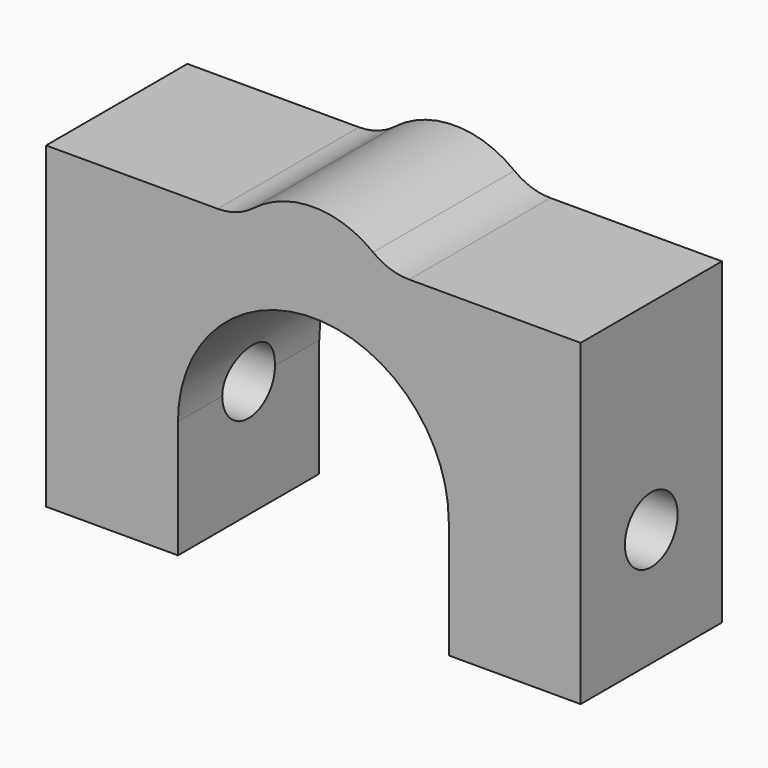
from build123d import *

# Parameters (mm, degrees)
F1_DEPTH = 15
F2_R     = 2.8
F3_DEPTH = 45.401
F4_R     = 5


with BuildPart() as f1:
    # F0 (on Front) → F1 (new body)
    with BuildSketch(Plane.XZ):
        with BuildLine():
            ThreePointArc((-11.5, 0), (0, 11.5), (11.5, 0))
            Line((11.5, 0), (11.5, -10))
            Line((11.5, -10), (22.7, -10))
            Line((22.7, -10), (22.7, 0))
            Line((22.7, 0), (22.7, 17.013083))
            Line((22.7, 17.013083), (6.196252, 17.013083))
            ThreePointArc((6.196252, 17.013083), (0, 19.79383), (-6.196252, 17.013083))
            Line((-6.196252, 17.013083), (-22.7, 17.013083))
            Line((-22.7, 17.013083), (-22.7, 0))
            Line((-22.7, 0), (-22.7, -10))
            Line((-22.7, -10), (-11.5, -10))
            Line((-11.5, -10), (-11.5, 0))
        make_face()
    extrude(amount=F1_DEPTH)

    # F2 (on face) → F3 (cut, through all)
    with BuildSketch(Plane.YZ.offset(22.7)):
        with Locations((-7.5, 0)):
            Circle(F2_R)
    extrude(amount=-F3_DEPTH, mode=Mode.SUBTRACT)

    # F4
    f4_edges = [f1.edges().sort_by_distance(p)[0] for p in [
        (6.196252, -7.5, 17.013083),
        (-6.196252, -7.5, 17.013083),
    ]]
    fillet(f4_edges, radius=F4_R)


solid = f1.part
